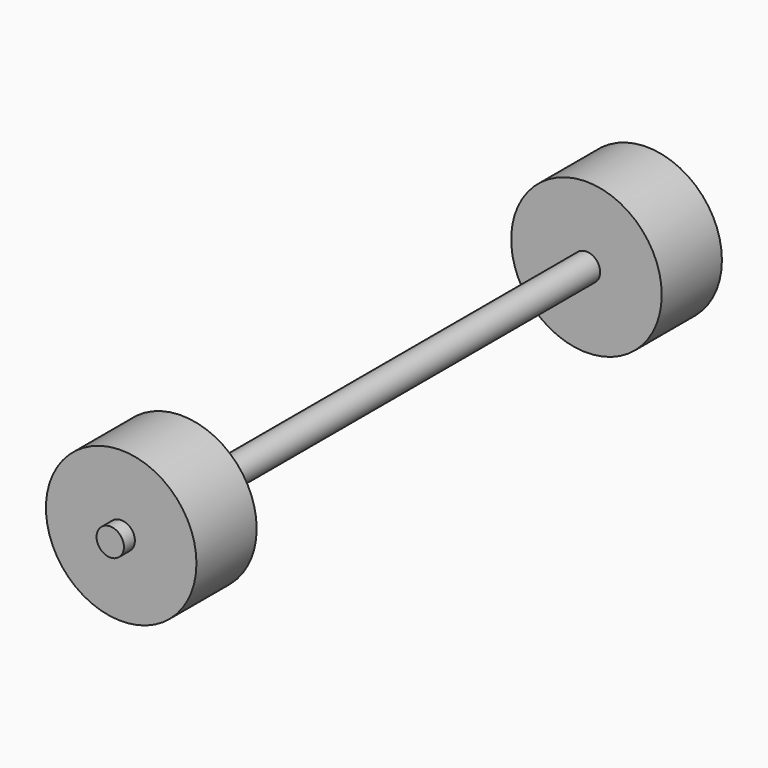
from build123d import *

# Parameters (mm, degrees)
CYLINDER002001001002_R             = 11
CYLINDER002001001002_DEPTH         = 11
CYLINDER002001001002_ROLL_ANGLE    = 90
CYLINDER002001001002001_R          = 11
CYLINDER002001001002001_DEPTH      = 11
CYLINDER002001001002001_ROLL_ANGLE = 90
CYLINDER002001002001_R             = 2
CYLINDER002001002001_DEPTH         = 100
CYLINDER002001002001_ROLL_ANGLE    = -90


with BuildPart() as wheel006:
    # Cylinder002001001002 → Cylinder002001001002 (new body)
    with BuildSketch(Plane.XY):
        Circle(CYLINDER002001001002_R)
    extrude(amount=CYLINDER002001001002_DEPTH)


with BuildPart() as wheel006_1:
    # Cylinder002001001002 roll: moved
    add(wheel006.part.rotate(Axis((0, 0, 0), (1, 0, 0)), CYLINDER002001001002_ROLL_ANGLE))


with BuildPart() as wheel006_2:
    # Cylinder002001001002 placement: moved
    add(wheel006_1.part.moved(Location((20, 78, 14))))


with BuildPart() as wheel007:
    # Cylinder002001001002001 → Cylinder002001001002001 (new body)
    with BuildSketch(Plane.XY):
        Circle(CYLINDER002001001002001_R)
    extrude(amount=CYLINDER002001001002001_DEPTH)


with BuildPart() as wheel007_1:
    # Cylinder002001001002001 roll: moved
    add(wheel007.part.rotate(Axis((0, 0, 0), (1, 0, 0)), CYLINDER002001001002001_ROLL_ANGLE))


with BuildPart() as wheel007_2:
    # Cylinder002001001002001 placement: moved
    add(wheel007_1.part.moved(Location((20, -7, 14))))


with BuildPart() as obj1:
    # Cylinder002001002001 → Cylinder002001002001 (new body)
    with BuildSketch(Plane.XY):
        Circle(CYLINDER002001002001_R)
    extrude(amount=CYLINDER002001002001_DEPTH)


with BuildPart() as obj1_1:
    # Cylinder002001002001 roll: moved
    add(obj1.part.rotate(Axis((0, 0, 0), (1, 0, 0)), CYLINDER002001002001_ROLL_ANGLE))


with BuildPart() as obj1_2:
    # Cylinder002001002001 placement: moved
    add(obj1_1.part.moved(Location((20, -20, 14))))

    # Fusion002001002002002: union Wheel006, Wheel007
    add(wheel006_2.part)
    add(wheel007_2.part)


with BuildPart() as obj1_3:
    # Fusion002001002002002 placement: moved
    add(obj1_2.part.moved(Location((35, 0, -24))))


solid = obj1_3.part
